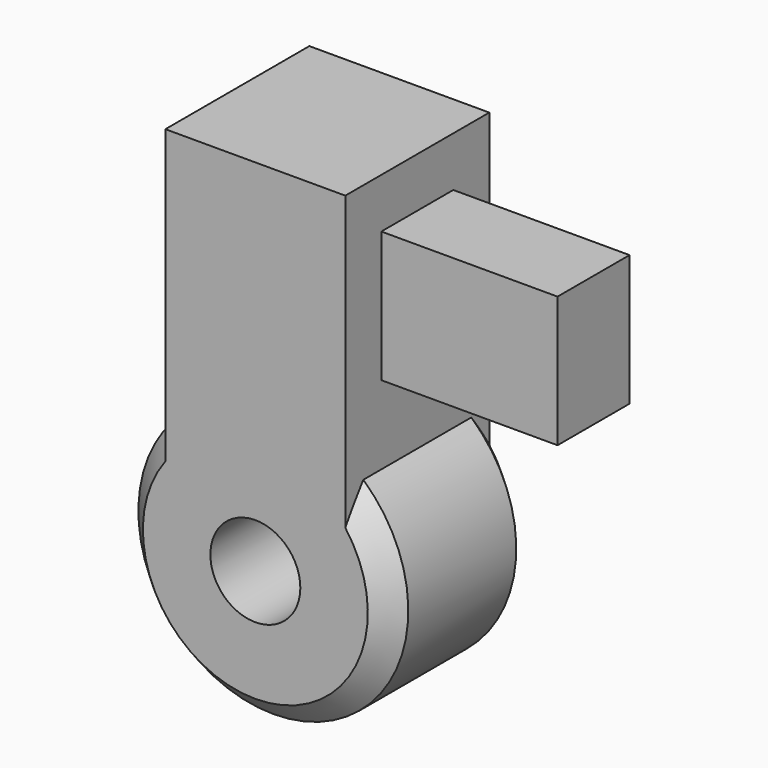
from build123d import *

# Parameters (mm, degrees)
F0_R     = 4.7625
F0_R_2   = 1.5875
F4_DEPTH = 3.175
F1_W     = 6.35
F1_H     = 12.7
F5_DEPTH = 3.175
F3_R     = 1.5875
F6_DEPTH = 12.7
F7_SIZE  = 0.79375
F2_W     = 7.2895279154
F2_H     = 4.6182582155
F8_DEPTH = 1.5875


with BuildPart() as f4:
    # F0 (on Front) → F4 (new body, symmetric)
    with BuildSketch(Plane.XZ):
        Circle(F0_R)
        Circle(F0_R_2, mode=Mode.SUBTRACT)
    extrude(amount=F4_DEPTH, both=True)

    # F1 (on Front) → F5 (join, symmetric)
    with BuildSketch(Plane.XZ):
        with Locations((0, 6.35)):
            Rectangle(F1_W, F1_H)
    extrude(amount=F5_DEPTH, both=True)

    # F3 (on Front) → F6 (cut, symmetric)
    with BuildSketch(Plane.XZ):
        Circle(F3_R)
    extrude(amount=F6_DEPTH, both=True, mode=Mode.SUBTRACT)

    # F7
    f7_edges = [f4.edges().sort_by_distance(p)[0] for p in [
        (0, 3.175, -4.7625),
        (0, -3.175, -4.7625),
    ]]
    chamfer(f7_edges, length=F7_SIZE)

    # F2 (on Front) → F8 (join, symmetric)
    with BuildSketch(Plane.XZ):
        with Locations((5.749846343, 8.6307809688)):
            Rectangle(F2_W, F2_H)
    extrude(amount=F8_DEPTH, both=True)


solid = f4.part
